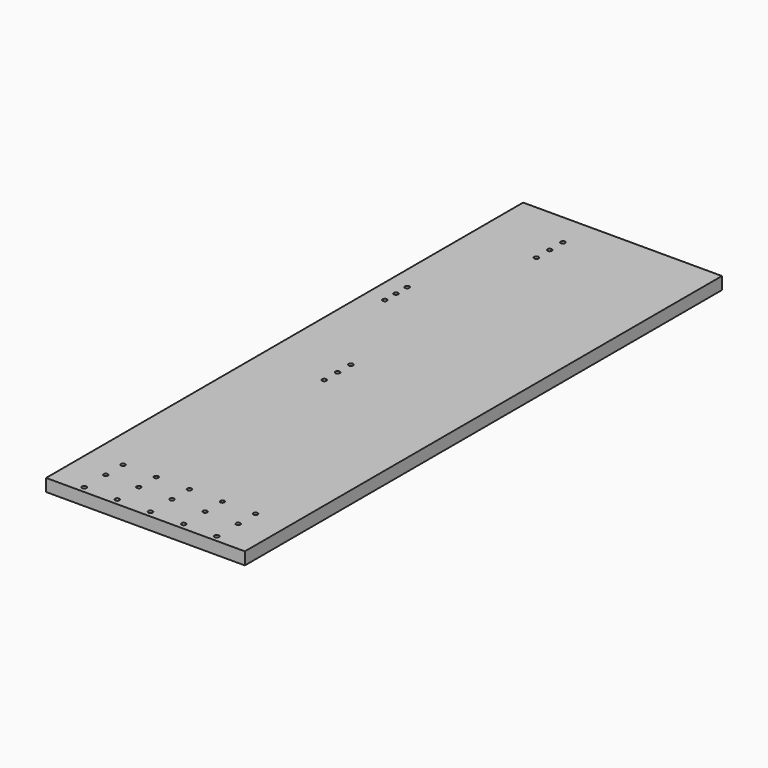
from build123d import *

# Parameters (mm, degrees)
F0_W     = 304.8
F0_H     = 914.4
F0_R     = 3.3782
F1_DEPTH = 19.05
F3_D     = 6.5278


with BuildPart() as f1:
    # F0 (on Top) → F1 (new body)
    with BuildSketch(Plane.XY):
        with Locations((-152.4, 457.2)):
            Rectangle(F0_W, F0_H)
        with Locations((-254, 9.525)):
            Circle(F0_R, mode=Mode.SUBTRACT)
        with Locations((-203.2, 9.525)):
            Circle(F0_R, mode=Mode.SUBTRACT)
        with Locations((-203.2, 406.4)):
            Circle(F0_R, mode=Mode.SUBTRACT)
        with Locations((-203.2, 431.8)):
            Circle(F0_R, mode=Mode.SUBTRACT)
        with Locations((-152.4, 9.525)):
            Circle(F0_R, mode=Mode.SUBTRACT)
        with Locations((-101.6, 9.525)):
            Circle(F0_R, mode=Mode.SUBTRACT)
        with Locations((-50.8, 9.525)):
            Circle(F0_R, mode=Mode.SUBTRACT)
        with Locations((-276.225, 613.56875)):
            Circle(F0_R, mode=Mode.SUBTRACT)
        with Locations((-276.225, 635)):
            Circle(F0_R, mode=Mode.SUBTRACT)
        with Locations((-276.225, 656.43125)):
            Circle(F0_R, mode=Mode.SUBTRACT)
        with Locations((-203.2, 457.2)):
            Circle(F0_R, mode=Mode.SUBTRACT)
        with Locations((-203.2, 812.8)):
            Circle(F0_R, mode=Mode.SUBTRACT)
        with Locations((-203.2, 838.2)):
            Circle(F0_R, mode=Mode.SUBTRACT)
        with Locations((-203.2, 863.6)):
            Circle(F0_R, mode=Mode.SUBTRACT)
    extrude(amount=F1_DEPTH)

    # F3 (through all)
    with Locations(Plane.XY.offset(19.05)):
        with Locations((-254, 84.0994), (-203.2, 84.0994), (-152.4, 84.0994), (-101.6, 84.0994), (-50.8, 84.0994), (-50.8, 50.8), (-101.6, 50.8), (-152.4, 50.8), (-203.2, 50.8), (-254, 50.8)):
            Hole(F3_D / 2)


solid = f1.part
